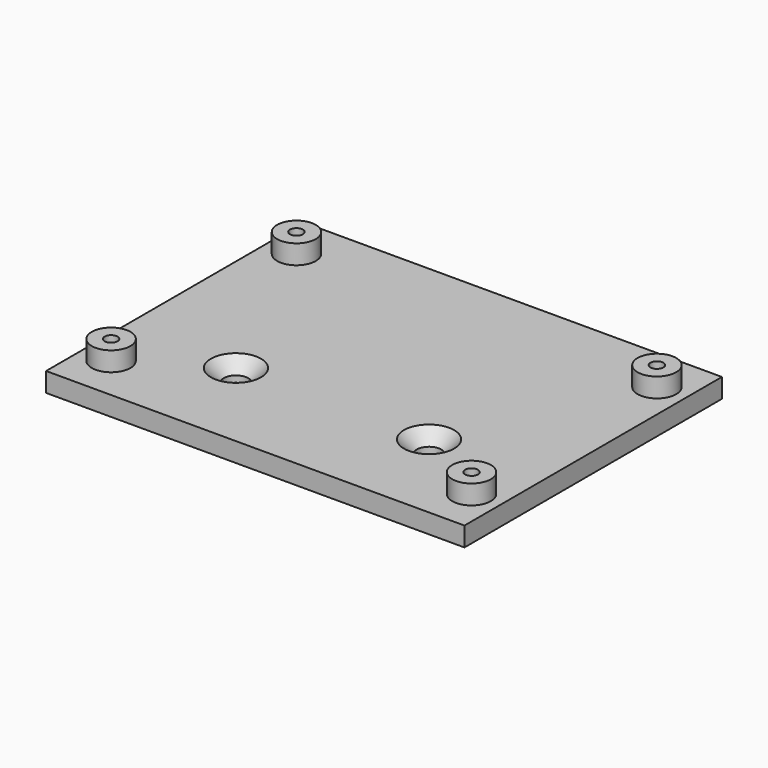
from build123d import *

# Parameters (mm, degrees)
F0_W     = 65
F0_H     = 50
F0_R     = 1
F0_R_2   = 1.9
F1_DEPTH = 3
F2_SIZE  = 2
F3_R     = 3
F3_R_2   = 1
F4_DEPTH = 3


with BuildPart() as f1:
    # F0 (on Top) → F1 (new body)
    with BuildSketch(Plane.XY):
        with Locations((32.5, 25)):
            Rectangle(F0_W, F0_H)
        with Locations((4.5, 7)):
            Circle(F0_R, mode=Mode.SUBTRACT)
        with Locations((17.5, 15)):
            Circle(F0_R_2, mode=Mode.SUBTRACT)
        with Locations((60.5, 7)):
            Circle(F0_R, mode=Mode.SUBTRACT)
        with Locations((47.5, 15)):
            Circle(F0_R_2, mode=Mode.SUBTRACT)
        with Locations((4.5, 43)):
            Circle(F0_R, mode=Mode.SUBTRACT)
        with Locations((60.5, 43)):
            Circle(F0_R, mode=Mode.SUBTRACT)
    extrude(amount=F1_DEPTH)

    # F2
    f2_edges = [f1.edges().sort_by_distance(p)[0] for p in [
        (15.6, 15, 3),
        (45.6, 15, 3),
    ]]
    chamfer(f2_edges, length=F2_SIZE)

    # F3 (on face) → F4 (join)
    with BuildSketch(Plane.XY.offset(3)):
        with Locations((4.5, 43)):
            Circle(F3_R)
        with Locations((4.5, 43)):
            Circle(F3_R_2, mode=Mode.SUBTRACT)
        with Locations((60.5, 43)):
            Circle(F3_R)
        with Locations((60.5, 43)):
            Circle(F3_R_2, mode=Mode.SUBTRACT)
        with Locations((60.5, 7)):
            Circle(F3_R)
        with Locations((60.5, 7)):
            Circle(F3_R_2, mode=Mode.SUBTRACT)
        with Locations((4.5, 7)):
            Circle(F3_R)
        with Locations((4.5, 7)):
            Circle(F3_R_2, mode=Mode.SUBTRACT)
    extrude(amount=F4_DEPTH)


solid = f1.part
